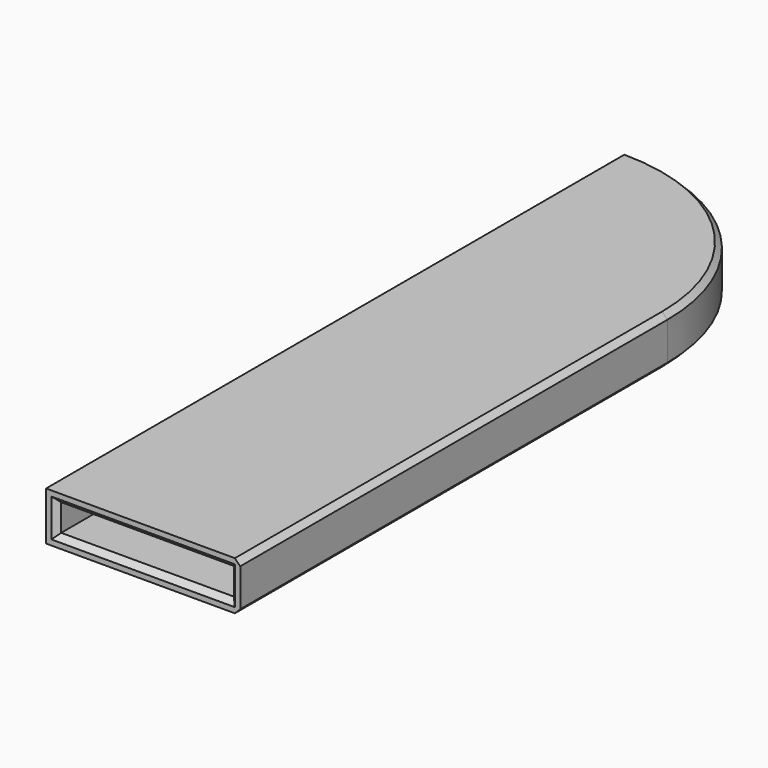
from build123d import *

# Parameters (mm, degrees)
EXTRUDE_DEPTH    = 5
EXTRUDE001_DEPTH = 9
CHAMFER_SIZE     = 1


with BuildPart() as extrude_body:
    # Sketch → Extrude (new body)
    with BuildSketch(Plane.XY):
        with BuildLine():
            Line((0, 0), (0, 132))
            ThreePointArc((32, 100), (22.627417, 122.627417), (0, 132))
            Line((32, 0), (32, 100))
            Line((0, 0), (32, 0))
        make_face()
    extrude(amount=EXTRUDE_DEPTH)


with BuildPart() as chamfer_body:
    # Sketch001 → Extrude001 (new body)
    with BuildSketch(Plane.XY.offset(-2)):
        with BuildLine():
            Line((-2, 135), (-2, 0))
            Line((-2, 0), (34, 0))
            Line((34, 0), (34, 99))
            ThreePointArc((34, 99), (23.455844, 124.455844), (-2, 135))
        make_face()
    extrude(amount=EXTRUDE001_DEPTH)

    # Cut: cut Extrude body
    add(extrude_body.part, mode=Mode.SUBTRACT)

    # Chamfer
    chamfer_edges = [chamfer_body.edges().sort_by_distance(p)[0] for p in [
        (0, 0, 2.5),
        (16, 0, 5),
        (32, 0, 2.5),
        (16, 0, 0),
        (34, 49.5, -2),
        (34, 49.5, 7),
    ]]
    chamfer(chamfer_edges, length=CHAMFER_SIZE)


solid = chamfer_body.part
